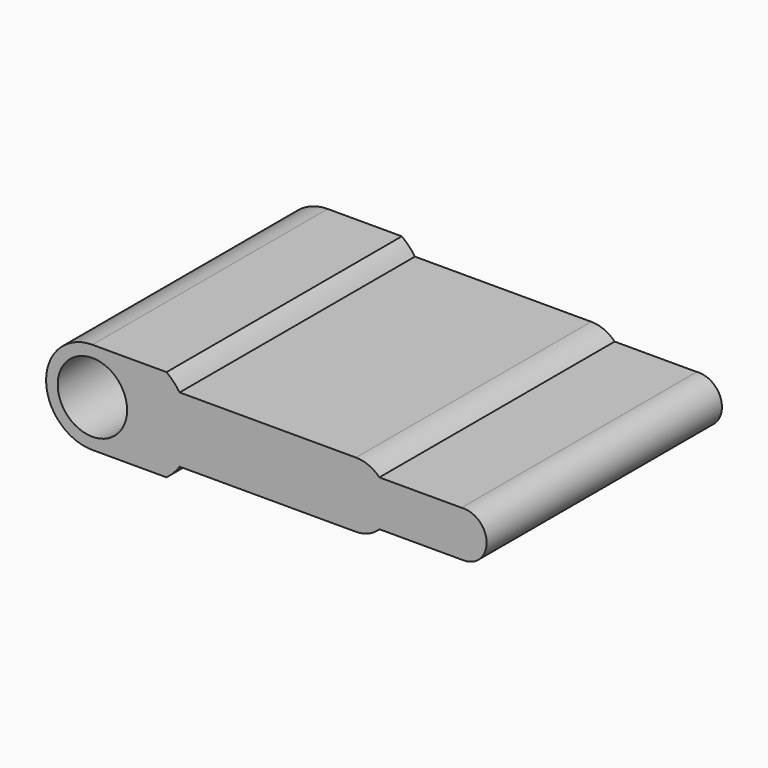
from build123d import *

# Parameters (mm, degrees)
F0_R     = 2.9972
F1_DEPTH = 25.4


with BuildPart() as f1:
    # F0 (on Front) → F1 (new body)
    with BuildSketch(Plane.XZ):
        with BuildLine():
            ThreePointArc((0, -4.0005), (2.828781, -2.828781), (4.0005, 0))
            ThreePointArc((4.0005, 0), (2.828781, 2.828781), (0, 4.0005))
            ThreePointArc((0, 4.0005), (-4.0005, 0), (0, -4.0005))
        make_face()
        Circle(F0_R, mode=Mode.SUBTRACT)
        with BuildLine():
            ThreePointArc((0, 4.0005), (2.828781, 2.828781), (4.0005, 0))
            ThreePointArc((4.0005, 0), (2.828781, -2.828781), (0, -4.0005))
            Line((0, -4.0005), (6.402239, -4.0005))
            ThreePointArc((6.402239, -4.0005), (7.019314, -3.456437), (7.538563, -2.81834))
            ThreePointArc((7.538563, -2.81834), (8.411154, 0.004125), (7.533896, 2.825144))
            ThreePointArc((7.533896, 2.825144), (7.016454, 3.45941), (6.402239, 4.0005))
            Line((6.402239, 4.0005), (0, 4.0005))
        make_face()
        with BuildLine():
            Line((22.762515, 2.825144), (7.533896, 2.825144))
            ThreePointArc((7.533896, 2.825144), (8.411154, 0.004125), (7.538563, -2.81834))
            Line((7.538563, -2.81834), (22.762515, -2.81834))
            ThreePointArc((22.762515, -2.81834), (23.858027, -2.596999), (24.781671, -1.967698))
            ThreePointArc((24.781671, -1.967698), (25.584257, 0.003402), (24.781671, 1.974502))
            ThreePointArc((24.781671, 1.974502), (23.858027, 2.603802), (22.762515, 2.825144))
        make_face()
        with BuildLine():
            Line((31.867356, 1.974502), (24.781671, 1.974502))
            ThreePointArc((24.781671, 1.974502), (25.584257, 0.003402), (24.781671, -1.967698))
            Line((24.781671, -1.967698), (32.071471, -1.967698))
            Line((32.071471, -1.967698), (31.867356, 1.974502))
        make_face()
        with BuildLine():
            ThreePointArc((32.071471, -1.967698), (34.045212, 0.11088), (31.867356, 1.974502))
            Line((31.867356, 1.974502), (32.071471, -1.967698))
        make_face()
    extrude(amount=F1_DEPTH)


solid = f1.part
